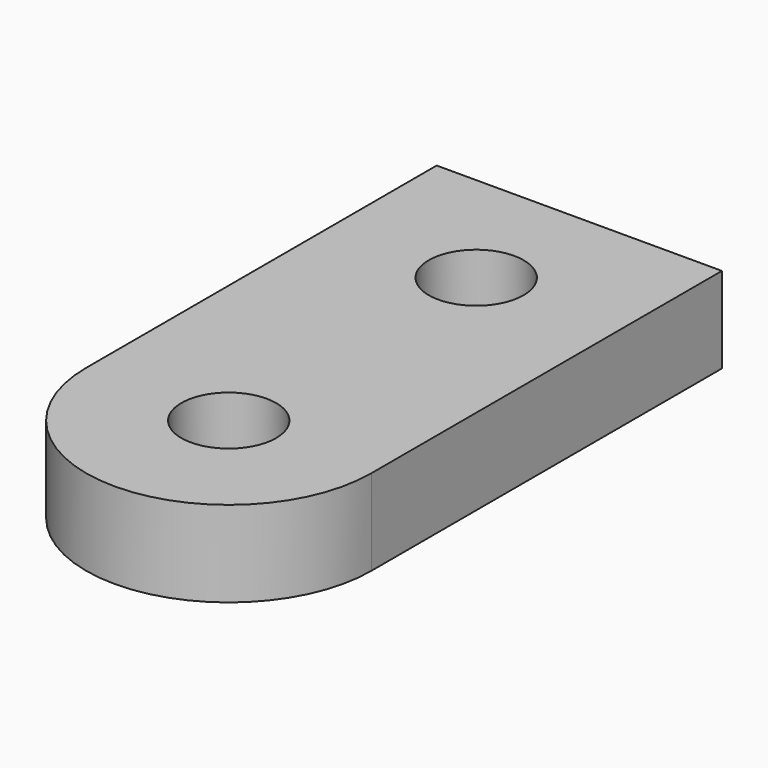
from build123d import *

# Parameters (mm, degrees)
F1_DEPTH = 3.175
F2_R     = 1.7526
F3_DEPTH = 3.175
F4_R     = 1.7526
F5_DEPTH = 25.4
F6_W     = 5.842
F6_H     = 6.35
F7_DEPTH = 25.4


with BuildPart() as f1:
    # F0 (on Top) → F1 (new body)
    with BuildSketch(Plane.XY):
        Polygon((-5.2705, 3.175), (-11.1125, 3.175), (-11.1125, -3.175), (-5.2705, -3.175), (-5.2705, -4.7625), (5.2705, -4.7625), (5.2705, -3.175), (11.1125, -3.175), (11.1125, 3.175), (5.2705, 3.175), (5.2705, 4.7625), (-5.2705, 4.7625), align=None)
    extrude(amount=F1_DEPTH)

    # F2 (on face) → F3 (join, through all)
    with BuildSketch(Plane(origin=(0, 0, 0), x_dir=(1, 0, 0), z_dir=(0, 0, -1))):
        with BuildLine():
            Line((5.2705, 4.7625), (5.2705, 11.43))
            ThreePointArc((5.2705, 11.43), (0, 16.7005), (-5.2705, 11.43))
            Line((-5.2705, 11.43), (-5.2705, 4.7625))
            Line((-5.2705, 4.7625), (5.2705, 4.7625))
        make_face()
        with Locations((0, 11.43)):
            Circle(F2_R, mode=Mode.SUBTRACT)
    extrude(amount=-F3_DEPTH)

    # F4 (on face) → F5 (cut)
    with BuildSketch(Plane(origin=(0, 0, 0), x_dir=(1, 0, 0), z_dir=(0, 0, -1))):
        Circle(F4_R)
    extrude(amount=-F5_DEPTH, mode=Mode.SUBTRACT)

    # F6 (on face) → F7 (cut)
    with BuildSketch(Plane.XY.offset(3.175)):
        with Locations((-8.1915, 0)):
            Rectangle(F6_W, F6_H)
        with Locations((8.1915, 0)):
            Rectangle(F6_W, F6_H)
    extrude(amount=-F7_DEPTH, mode=Mode.SUBTRACT)


solid = f1.part
